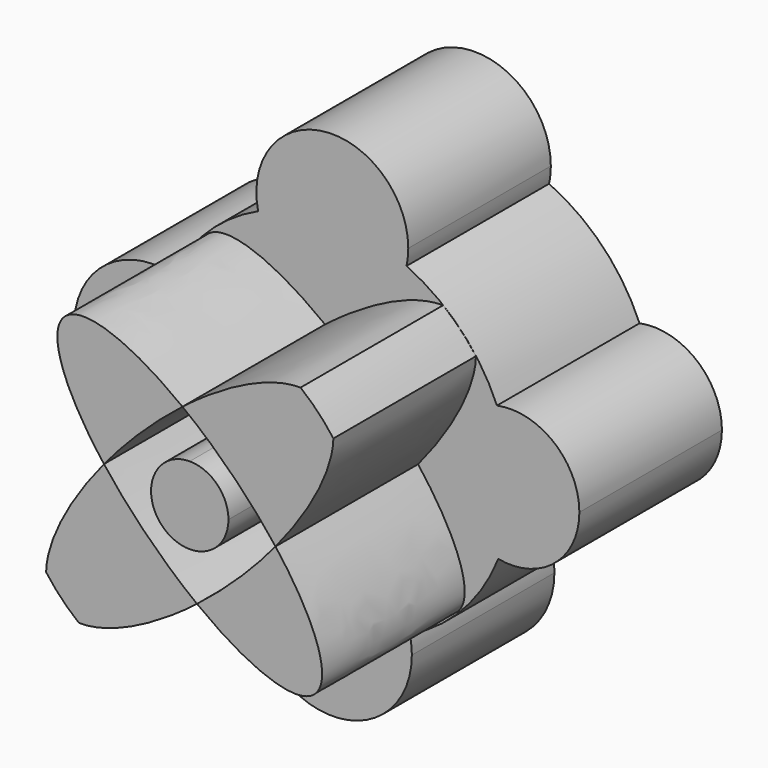
from build123d import *

# Parameters (mm, degrees)
F2_DEPTH = 45
F4_DEPTH = 45


with BuildPart() as f2:
    # F1 (on Front) → F2 (new body)
    with BuildSketch(Plane.XZ):
        with BuildLine():
            ThreePointArc((36.2788785414, 26.6548611558), (32.4166318197, 31.2378077483), (27.9798294247, 35.2670922649))
            add(Edge.make_bspline(
                [(27.9798294247, 35.2670922649), (16.373706559, 35.4370582191), (-1.8333992833, 21.3207404168)],
                knots=[3.493784329, 3.493784329, 3.493784329, 4.4250054126, 4.4250054126, 4.4250054126], degree=2, weights=[1, 0.8935476182, 1]))
            add(Edge.make_bspline(
                [(21.6583468151, -2.1163838559), (11.4930271298, 11.1332547343), (-1.8333992833, 21.3207404168)],
                knots=[4.3261054837, 4.3261054837, 4.3261054837, 5.0859336443, 5.0859336443, 5.0859336443], degree=2, weights=[1, 0.9286965015, 1]))
            add(Edge.make_bspline(
                [(21.6583468151, -2.1163838559), (36.023638163, 15.2572930769), (36.2788785414, 26.6548611558)],
                knots=[1.8725359052, 1.8725359052, 1.8725359052, 2.7894009782, 2.7894009782, 2.7894009782], degree=2, weights=[1, 0.8967472689, 1]))
        make_face()
    extrude(amount=F2_DEPTH)


with BuildPart() as f2b:
    # F1 (on Front) → F2, piece 2 (new body)
    with BuildSketch(Plane.XZ):
        with BuildLine():
            add(Edge.make_bspline(
                [(-21.6583468151, 2.1163838559), (-36.023638163, -15.2572930769), (-36.2788785414, -26.6548611558)],
                knots=[5.0141285588, 5.0141285588, 5.0141285588, 5.9309936318, 5.9309936318, 5.9309936318], degree=2, weights=[1, 0.8967472689, 1]))
            ThreePointArc((-36.2788785414, -26.6548611558), (-32.4166318197, -31.2378077483), (-27.9798294247, -35.2670922649))
            add(Edge.make_bspline(
                [(-27.9798294247, -35.2670922649), (-16.373706559, -35.4370582191), (1.8333992833, -21.3207404168)],
                knots=[0.3521916754, 0.3521916754, 0.3521916754, 1.283412759, 1.283412759, 1.283412759], degree=2, weights=[1, 0.8935476182, 1]))
            add(Edge.make_bspline(
                [(-21.6583468151, 2.1163838559), (-11.4930271298, -11.1332547343), (1.8333992833, -21.3207404168)],
                knots=[1.1845128301, 1.1845128301, 1.1845128301, 1.9443409907, 1.9443409907, 1.9443409907], degree=2, weights=[1, 0.9286965015, 1]))
        make_face()
    extrude(amount=F2_DEPTH)


with BuildPart() as f2c:
    # F1 (on Front) → F2, piece 3 (new body)
    with BuildSketch(Plane.XZ):
        with BuildLine():
            add(Edge.make_bspline(
                [(1.8333992833, -21.3207404168), (85.4103636735, -85.2117717946), (21.6583468151, -2.1163838559)],
                knots=[1.9443409907, 1.9443409907, 1.9443409907, 4.3261054837, 4.3261054837, 4.3261054837], degree=2, weights=[1, 0.3708406775, 1]))
            add(Edge.make_bspline(
                [(1.8333992833, -21.3207404168), (12.8270090032, -12.7971842874), (21.6583468151, -2.1163838559)],
                knots=[1.283412759, 1.283412759, 1.283412759, 1.8725359052, 1.8725359052, 1.8725359052], degree=2, weights=[1, 0.9569295185, 1]))
        make_face()
    extrude(amount=F2_DEPTH)


with BuildPart() as f2d:
    # F1 (on Front) → F2, piece 4 (new body)
    with BuildSketch(Plane.XZ):
        with BuildLine():
            add(Edge.make_bspline(
                [(-1.8333992833, 21.3207404168), (-12.8270090032, 12.7971842874), (-21.6583468151, 2.1163838559)],
                knots=[4.4250054126, 4.4250054126, 4.4250054126, 5.0141285588, 5.0141285588, 5.0141285588], degree=2, weights=[1, 0.9569295185, 1]))
            add(Edge.make_bspline(
                [(-1.8333992833, 21.3207404168), (-24.5980924206, 38.7233792199), (-31.7409783602, 31.5334945917)],
                knots=[5.0859336443, 5.0859336443, 5.0859336443, 6.2831853072, 6.2831853072, 6.2831853072], degree=2, weights=[1, 0.8261107493, 1]))
            add(Edge.make_bspline(
                [(-31.7409783602, 31.5334945917), (-38.7865541351, 24.4415604086), (-21.6583468151, 2.1163838559)],
                knots=[0, 0, 0, 1.1845128301, 1.1845128301, 1.1845128301], degree=2, weights=[1, 0.8296831834, 1]))
        make_face()
    extrude(amount=F2_DEPTH)


with BuildPart() as f2e:
    # F0 (on Front) → F2, piece 5 (new body)
    with BuildSketch(Plane.XZ):
        with BuildLine():
            Line((0, 0), (9.7734186146, 0))
            ThreePointArc((9.7734186146, 0), (6.9108505778, 6.9108505778), (0, 9.7734186146))
            Line((0, 9.7734186146), (0, 0))
        make_face()
        with BuildLine():
            ThreePointArc((0, -9.7734186146), (6.9108505778, -6.9108505778), (9.7734186146, 0))
            Line((9.7734186146, 0), (0, 0))
            Line((0, 0), (0, -9.7734186146))
        make_face()
        with BuildLine():
            Line((0, 0), (0, 9.7734186146))
            ThreePointArc((0, 9.7734186146), (-6.9108505778, 6.9108505778), (-9.7734186146, 0))
            Line((-9.7734186146, 0), (0, 0))
        make_face()
        with BuildLine():
            ThreePointArc((-9.7734186146, 0), (-6.9108505778, -6.9108505778), (0, -9.7734186146))
            Line((0, -9.7734186146), (0, 0))
            Line((0, 0), (-9.7734186146, 0))
        make_face()
    extrude(amount=F2_DEPTH)


with BuildPart() as f4:
    # F3 (on Front) → F4 (new body)
    with BuildSketch(Plane.XZ):
        with BuildLine():
            ThreePointArc((41.9050263243, -16.5907966242), (44.2715281198, -8.4449725759), (45.069787706, 0))
            ThreePointArc((45.069787706, 0), (44.188031189, 8.8715085246), (41.577263445, 17.3958882582))
            ThreePointArc((41.577263445, 17.3958882582), (27.7518148175, 0.2676346564), (41.9050263243, -16.5907966242))
        make_face()
        with BuildLine():
            ThreePointArc((-19.5782042129, -40.5953160311), (0, -45.069787706), (19.5782042129, -40.5953160311))
            ThreePointArc((19.5782042129, -40.5953160311), (0, -24.9867855158), (-19.5782042129, -40.5953160311))
        make_face()
        with BuildLine():
            ThreePointArc((-18.7389453169, 40.9894827032), (0, 45.069787706), (18.7389453169, 40.9894827032))
            ThreePointArc((18.7389453169, 40.9894827032), (19.0679453197, 43.0178564721), (19.1780332804, 45.069787706))
            ThreePointArc((19.1780332804, 45.069787706), (-2.051931234, 64.1377330257), (-18.7389453169, 40.9894827032))
        make_face()
        with BuildLine():
            ThreePointArc((-40.7896390156, -19.1700577162), (-45.0670371968, 0.497917832), (-40.3561375829, 20.0665872348))
            ThreePointArc((-40.3561375829, 20.0665872348), (-65.1935359253, 0.7202830736), (-40.7896390156, -19.1700577162))
        make_face()
        with BuildLine():
            ThreePointArc((41.577263445, 17.3958882582), (44.188031189, 8.8715085246), (45.069787706, 0))
            ThreePointArc((45.069787706, 0), (44.2715281198, -8.4449725759), (41.9050263243, -16.5907966242))
            ThreePointArc((41.9050263243, -16.5907966242), (56.1379361889, -12.8814232649), (62.3843744183, 0.4346265766))
            ThreePointArc((62.3843744183, 0.4346265766), (56.0090092679, 13.8568121744), (41.577263445, 17.3958882582))
        make_face()
        with BuildLine():
            ThreePointArc((-24.9393101178, 0.497917832), (-29.2565169794, 12.9539544337), (-40.3561375829, 20.0665872348))
            ThreePointArc((-40.3561375829, 20.0665872348), (-45.0670371968, 0.497917832), (-40.7896390156, -19.1700577162))
            ThreePointArc((-40.7896390156, -19.1700577162), (-29.3950925094, -12.1320286082), (-24.9393101178, 0.497917832))
        make_face()
        with BuildLine():
            ThreePointArc((20.0830021903, -45.069787706), (19.9564036723, -42.8183593945), (19.5782042129, -40.5953160311))
            ThreePointArc((19.5782042129, -40.5953160311), (0, -45.069787706), (-19.5782042129, -40.5953160311))
            ThreePointArc((-19.5782042129, -40.5953160311), (-2.2514283115, -65.0261913783), (20.0830021903, -45.069787706))
        make_face()
        with BuildLine():
            ThreePointArc((41.9050263243, -16.5907966242), (27.7518148175, 0.2676346564), (41.577263445, 17.3958882582))
            ThreePointArc((41.577263445, 17.3958882582), (32.3832624138, 31.3466119271), (18.7389453169, 40.9894827032))
            ThreePointArc((18.7389453169, 40.9894827032), (0, 25.8917544256), (-18.7389453169, 40.9894827032))
            ThreePointArc((-18.7389453169, 40.9894827032), (-31.344841592, 32.3849759833), (-40.3561375829, 20.0665872348))
            ThreePointArc((-40.3561375829, 20.0665872348), (-29.2565169794, 12.9539544337), (-24.9393101178, 0.497917832))
            ThreePointArc((-24.9393101178, 0.497917832), (-29.3950925094, -12.1320286082), (-40.7896390156, -19.1700577162))
            ThreePointArc((-40.7896390156, -19.1700577162), (-32.028573922, -31.7089296001), (-19.5782042129, -40.5953160311))
            ThreePointArc((-19.5782042129, -40.5953160311), (0, -24.9867855158), (19.5782042129, -40.5953160311))
            ThreePointArc((19.5782042129, -40.5953160311), (33.0015324995, -30.6950259253), (41.9050263243, -16.5907966242))
        make_face()
        with BuildLine():
            ThreePointArc((-18.7389453169, 40.9894827032), (0, 25.8917544256), (18.7389453169, 40.9894827032))
            ThreePointArc((18.7389453169, 40.9894827032), (0, 45.069787706), (-18.7389453169, 40.9894827032))
        make_face()
    extrude(amount=-F4_DEPTH)


solid = Compound([f2.part, f2b.part, f2c.part, f2d.part, f2e.part, f4.part])
